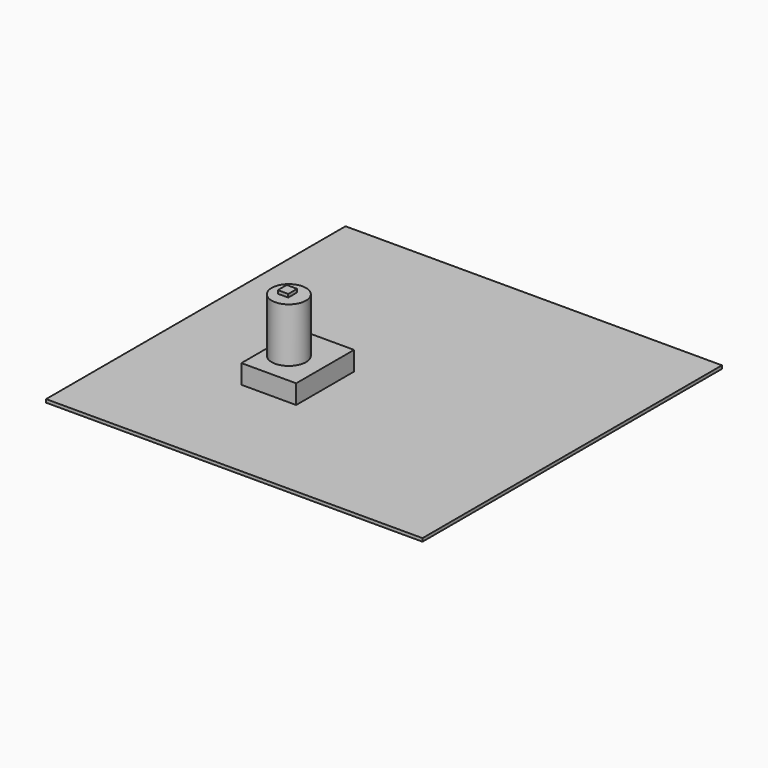
from build123d import *

# Parameters (mm, degrees)
F0_W     = 3000
F0_H     = 2982.708979
F1_DEPTH = 25.4
F2_W     = 436.452597
F2_H     = 576.903641
F3_DEPTH = 152.4
F4_R     = 136.854123
F5_DEPTH = 431.8
F6_W     = 82.734584
F6_H     = 88.424623
F7_DEPTH = 25.4


with BuildPart() as f1:
    # F0 (on Top) → F1 (new body)
    with BuildSketch(Plane.XY):
        with Locations((0.998342, 4.849091)):
            Rectangle(F0_W, F0_H)
    extrude(amount=F1_DEPTH)

    # F2 (on face) → F3 (join)
    with BuildSketch(Plane.XY.offset(25.4)):
        with Locations((-451.818898, -288.45182)):
            Rectangle(F2_W, F2_H)
    extrude(amount=F3_DEPTH)

    # F4 (on face) → F5 (join)
    with BuildSketch(Plane.XY.offset(177.8)):
        with Locations((-500.940084, -316.064328)):
            Circle(F4_R)
    extrude(amount=F5_DEPTH)

    # F6 (on face) → F7 (join)
    with BuildSketch(Plane.XY.offset(609.6)):
        with Locations((-516.984284, -309.105575)):
            Rectangle(F6_W, F6_H)
    extrude(amount=F7_DEPTH)


solid = f1.part
